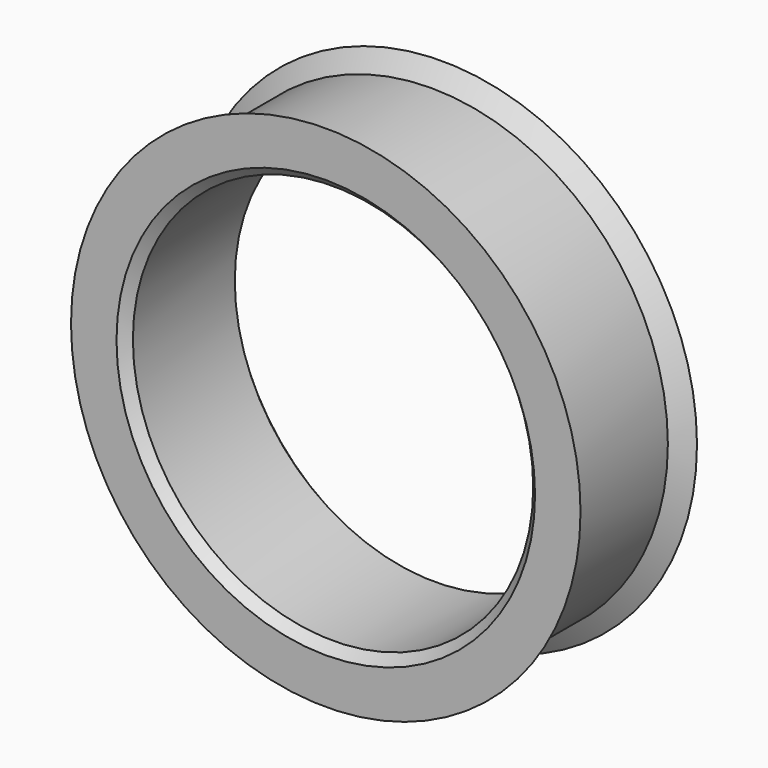
from build123d import *

# Parameters (mm, degrees)
SKETCH001_R  = 11
POCKET_DEPTH = 8
CHAMFER_SIZE = 0.5


with BuildPart() as part:
    # Sketch → Revolution (revolve)
    with BuildSketch(Plane.XY):
        Polygon((0, 0), (-14, 0), (-13, 0.75), (-13, 7.25), (-14, 8), (0, 8), align=None)
    revolve(axis=Axis((0, 0, 0), (0, 1, 0)))

    # Sketch001 (on Face1 of Revolution) → Pocket (cut)
    with BuildSketch(Plane.XZ):
        Circle(SKETCH001_R)
    extrude(amount=-POCKET_DEPTH, mode=Mode.SUBTRACT)

    # Chamfer
    chamfer_edges = [part.edges().sort_by_distance(p)[0] for p in [
        (-11, 0, 0),
        (-11, 8, 0),
    ]]
    chamfer(chamfer_edges, length=CHAMFER_SIZE)


solid = part.part
